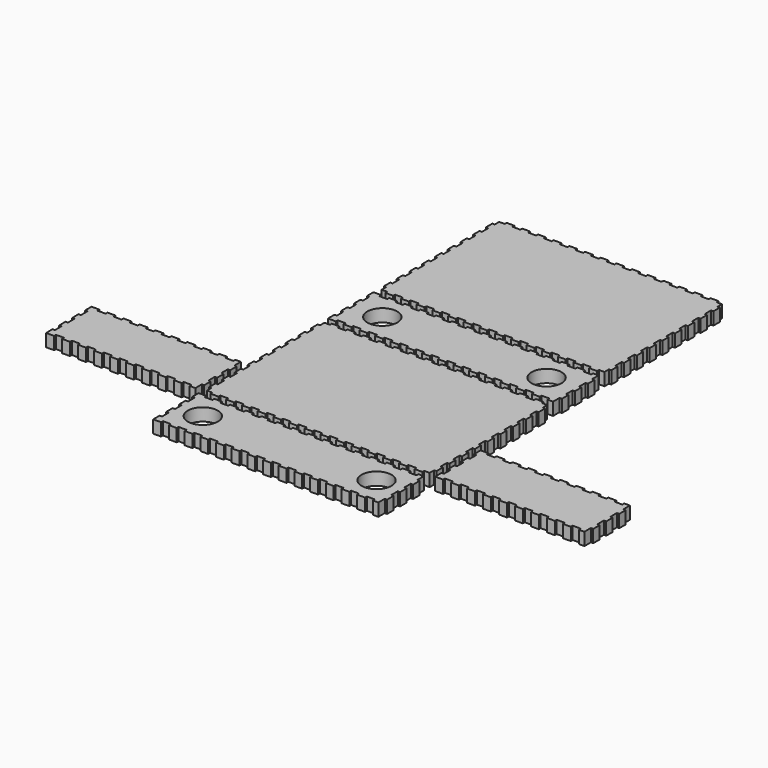
from build123d import *

# Parameters (mm, degrees)
F0_R     = 30.1625
F1_DEPTH = 25.4


with BuildPart() as f1:
    # F0 (on Top) → F1 (new body)
    with BuildSketch(Plane.XY):
        Polygon((-223.837729, 145.341111), (-223.837729, 134.063511), (-212.834449, 134.063511), (-212.834449, 129.301011), (-197.068669, 129.301011), (-197.068669, 134.063511), (-181.305429, 134.063511), (-181.305429, 129.301011), (-165.539649, 129.301011), (-165.539649, 134.063511), (-149.773869, 134.063511), (-149.773869, 129.301011), (-134.008089, 129.301011), (-134.008089, 134.063511), (-118.242309, 134.063511), (-118.242309, 129.301011), (-102.476529, 129.301011), (-102.476529, 134.063511), (-86.710749, 134.063511), (-86.710749, 129.301011), (-70.944969, 129.301011), (-70.944969, 134.063511), (-55.179189, 134.063511), (-55.179189, 129.301011), (-39.413409, 129.301011), (-39.413409, 134.063511), (-23.647629, 134.063511), (-23.647629, 129.301011), (-7.881849, 129.301011), (-7.881849, 134.063511), (7.883931, 134.063511), (7.883931, 129.301011), (23.649711, 129.301011), (23.649711, 134.063511), (39.415491, 134.063511), (39.415491, 129.301011), (55.181271, 129.301011), (55.181271, 134.063511), (70.947051, 134.063511), (70.947051, 129.301011), (86.707751, 129.301011), (86.707751, 134.063511), (102.476071, 134.063511), (102.476071, 129.301011), (118.239311, 129.301011), (118.239311, 134.063511), (134.005091, 134.063511), (134.005091, 129.301011), (149.773411, 129.301011), (149.773411, 134.063511), (165.536651, 134.063511), (165.536651, 129.301011), (181.304971, 129.301011), (181.304971, 134.063511), (197.068211, 134.063511), (197.068211, 129.301011), (212.833991, 129.301011), (212.833991, 134.063511), (223.837271, 134.063511), (223.837271, 145.341111), (228.599771, 145.341111), (228.599771, 161.381211), (223.837271, 161.381211), (223.837271, 177.426391), (228.599771, 177.426391), (228.599771, 193.466491), (223.837271, 193.466491), (223.837271, 209.506591), (228.599771, 209.506591), (228.599771, 225.551771), (223.837271, 225.551771), (223.837271, 241.591871), (228.599771, 241.591871), (228.599771, 257.637051), (223.837271, 257.637051), (223.837271, 273.677151), (228.599771, 273.677151), (228.599771, 289.719791), (223.837271, 289.719791), (223.837271, 305.762431), (228.599771, 305.762431), (228.599771, 321.805071), (223.837271, 321.805071), (223.837271, 337.845171), (228.599771, 337.845171), (228.599771, 353.887811), (223.837271, 353.887811), (223.837271, 369.930451), (228.599771, 369.930451), (228.599771, 385.970551), (223.837271, 385.970551), (223.837271, 402.015731), (228.599771, 402.015731), (228.599771, 418.055831), (223.837271, 418.055831), (223.837271, 429.338511), (212.833991, 429.338511), (212.833991, 434.101011), (197.068211, 434.101011), (197.068211, 429.338511), (181.304971, 429.338511), (181.304971, 434.101011), (165.536651, 434.101011), (165.536651, 429.338511), (149.773411, 429.338511), (149.773411, 434.101011), (134.005091, 434.101011), (134.005091, 429.338511), (118.239311, 429.338511), (118.239311, 434.101011), (102.476071, 434.101011), (102.476071, 429.338511), (86.707751, 429.338511), (86.707751, 434.101011), (70.947051, 434.101011), (70.947051, 429.338511), (55.181271, 429.338511), (55.181271, 434.101011), (39.415491, 434.101011), (39.415491, 429.338511), (23.649711, 429.338511), (23.649711, 434.101011), (7.883931, 434.101011), (7.883931, 429.338511), (-7.881849, 429.338511), (-7.881849, 434.101011), (-23.647629, 434.101011), (-23.647629, 429.338511), (-39.413409, 429.338511), (-39.413409, 434.101011), (-55.179189, 434.101011), (-55.179189, 429.338511), (-70.944969, 429.338511), (-70.944969, 434.101011), (-86.710749, 434.101011), (-86.710749, 429.338511), (-102.476529, 429.338511), (-102.476529, 434.101011), (-118.242309, 434.101011), (-118.242309, 429.338511), (-134.008089, 429.338511), (-134.008089, 434.101011), (-149.773869, 434.101011), (-149.773869, 429.338511), (-165.539649, 429.338511), (-165.539649, 434.101011), (-181.305429, 434.101011), (-181.305429, 429.338511), (-197.068669, 429.338511), (-197.068669, 434.101011), (-212.834449, 434.101011), (-212.834449, 429.338511), (-223.837729, 429.338511), (-223.837729, 418.055831), (-228.600229, 418.055831), (-228.600229, 402.015731), (-223.837729, 402.015731), (-223.837729, 385.970551), (-228.600229, 385.970551), (-228.600229, 369.930451), (-223.837729, 369.930451), (-223.837729, 353.887811), (-228.600229, 353.887811), (-228.600229, 337.845171), (-223.837729, 337.845171), (-223.837729, 321.805071), (-228.600229, 321.805071), (-228.600229, 305.762431), (-223.837729, 305.762431), (-223.837729, 289.719791), (-228.600229, 289.719791), (-228.600229, 273.677151), (-223.837729, 273.677151), (-223.837729, 257.637051), (-228.600229, 257.637051), (-228.600229, 241.591871), (-223.837729, 241.591871), (-223.837729, 225.551771), (-228.600229, 225.551771), (-228.600229, 209.506591), (-223.837729, 209.506591), (-223.837729, 193.466491), (-228.600229, 193.466491), (-228.600229, 177.426391), (-223.837729, 177.426391), (-223.837729, 161.381211), (-228.600229, 161.381211), (-228.600229, 145.341111), align=None)
        Polygon((-228.600229, 21.325611), (-228.600229, 4.998491), (-212.834449, 4.998491), (-212.834449, 9.760991), (-197.068669, 9.760991), (-197.068669, 4.998491), (-181.305429, 4.998491), (-181.305429, 9.760991), (-165.539649, 9.760991), (-165.539649, 4.998491), (-149.773869, 4.998491), (-149.773869, 9.760991), (-134.008089, 9.760991), (-134.008089, 4.998491), (-118.242309, 4.998491), (-118.242309, 9.760991), (-102.476529, 9.760991), (-102.476529, 4.998491), (-86.710749, 4.998491), (-86.710749, 9.760991), (-70.944969, 9.760991), (-70.944969, 4.998491), (-55.179189, 4.998491), (-55.179189, 9.760991), (-39.413409, 9.760991), (-39.413409, 4.998491), (-23.647629, 4.998491), (-23.647629, 9.760991), (-7.881849, 9.760991), (-7.881849, 4.998491), (7.883931, 4.998491), (7.883931, 9.760991), (23.649711, 9.760991), (23.649711, 4.998491), (39.415491, 4.998491), (39.415491, 9.760991), (55.181271, 9.760991), (55.181271, 4.998491), (70.947051, 4.998491), (70.947051, 9.760991), (86.707751, 9.760991), (86.707751, 4.998491), (102.476071, 4.998491), (102.476071, 9.760991), (118.239311, 9.760991), (118.239311, 4.998491), (134.005091, 4.998491), (134.005091, 9.760991), (149.773411, 9.760991), (149.773411, 4.998491), (165.536651, 4.998491), (165.536651, 9.760991), (181.304971, 9.760991), (181.304971, 4.998491), (197.068211, 4.998491), (197.068211, 9.760991), (212.833991, 9.760991), (212.833991, 4.998491), (223.837271, 4.998491), (223.837271, 21.325611), (228.599771, 21.325611), (228.599771, 37.655271), (223.837271, 37.655271), (223.837271, 53.984931), (228.599771, 53.984931), (228.599771, 70.312051), (223.837271, 70.312051), (223.837271, 86.641711), (228.599771, 86.641711), (228.599771, 102.968831), (223.837271, 102.968831), (223.837271, 119.298491), (212.833991, 119.298491), (212.833991, 114.535991), (197.068211, 114.535991), (197.068211, 119.298491), (181.304971, 119.298491), (181.304971, 114.535991), (165.536651, 114.535991), (165.536651, 119.298491), (149.773411, 119.298491), (149.773411, 114.535991), (134.005091, 114.535991), (134.005091, 119.298491), (118.239311, 119.298491), (118.239311, 114.535991), (102.476071, 114.535991), (102.476071, 119.298491), (86.707751, 119.298491), (86.707751, 114.535991), (70.947051, 114.535991), (70.947051, 119.298491), (55.181271, 119.298491), (55.181271, 114.535991), (39.415491, 114.535991), (39.415491, 119.298491), (23.649711, 119.298491), (23.649711, 114.535991), (7.883931, 114.535991), (7.883931, 119.298491), (-7.881849, 119.298491), (-7.881849, 114.535991), (-23.647629, 114.535991), (-23.647629, 119.298491), (-39.413409, 119.298491), (-39.413409, 114.535991), (-55.179189, 114.535991), (-55.179189, 119.298491), (-70.944969, 119.298491), (-70.944969, 114.535991), (-86.710749, 114.535991), (-86.710749, 119.298491), (-102.476529, 119.298491), (-102.476529, 114.535991), (-118.242309, 114.535991), (-118.242309, 119.298491), (-134.008089, 119.298491), (-134.008089, 114.535991), (-149.773869, 114.535991), (-149.773869, 119.298491), (-165.539649, 119.298491), (-165.539649, 114.535991), (-181.305429, 114.535991), (-181.305429, 119.298491), (-197.068669, 119.298491), (-197.068669, 114.535991), (-212.834449, 114.535991), (-212.834449, 119.298491), (-228.600229, 119.298491), (-228.600229, 102.968831), (-223.837729, 102.968831), (-223.837729, 86.641711), (-228.600229, 86.641711), (-228.600229, 70.312051), (-223.837729, 70.312051), (-223.837729, 53.984931), (-228.600229, 53.984931), (-228.600229, 37.655271), (-223.837729, 37.655271), (-223.837729, 21.325611), align=None)
        with Locations((-165.099479, 62.148491)):
            Circle(F0_R, mode=Mode.SUBTRACT)
        with Locations((165.113221, 62.148491)):
            Circle(F0_R, mode=Mode.SUBTRACT)
        Polygon((-223.837729, -293.758849), (-223.837729, -305.039497), (-212.834449, -305.039497), (-212.834449, -309.801997), (-197.068669, -309.801997), (-197.068669, -305.039497), (-181.305429, -305.039497), (-181.305429, -309.801997), (-165.539649, -309.801997), (-165.539649, -305.039497), (-149.773869, -305.039497), (-149.773869, -309.801997), (-134.008089, -309.801997), (-134.008089, -305.039497), (-118.242309, -305.039497), (-118.242309, -309.801997), (-102.476529, -309.801997), (-102.476529, -305.039497), (-86.710749, -305.039497), (-86.710749, -309.801997), (-70.944969, -309.801997), (-70.944969, -305.039497), (-55.179189, -305.039497), (-55.179189, -309.801997), (-39.413409, -309.801997), (-39.413409, -305.039497), (-23.647629, -305.039497), (-23.647629, -309.801997), (-7.881849, -309.801997), (-7.881849, -305.039497), (7.883931, -305.039497), (7.883931, -309.801997), (23.649711, -309.801997), (23.649711, -305.039497), (39.415491, -305.039497), (39.415491, -309.801997), (55.181271, -309.801997), (55.181271, -305.039497), (70.947051, -305.039497), (70.947051, -309.801997), (86.707751, -309.801997), (86.707751, -305.039497), (102.476071, -305.039497), (102.476071, -309.801997), (118.239311, -309.801997), (118.239311, -305.039497), (134.005091, -305.039497), (134.005091, -309.801997), (149.773411, -309.801997), (149.773411, -305.039497), (165.536651, -305.039497), (165.536651, -309.801997), (181.304971, -309.801997), (181.304971, -305.039497), (197.068211, -305.039497), (197.068211, -309.801997), (212.833991, -309.801997), (212.833991, -305.039497), (223.837271, -305.039497), (223.837271, -293.758849), (228.599771, -293.758849), (228.599771, -277.716971), (223.837271, -277.716971), (223.837271, -261.675601), (228.599771, -261.675601), (228.599771, -245.633723), (223.837271, -245.633723), (223.837271, -229.590321), (228.599771, -229.590321), (228.599771, -213.548951), (223.837271, -213.548951), (223.837271, -197.507073), (228.599771, -197.507073), (228.599771, -181.465449), (223.837271, -181.465449), (223.837271, -165.422809), (228.599771, -165.422809), (228.599771, -149.380169), (223.837271, -149.380169), (223.837271, -133.340069), (228.599771, -133.340069), (228.599771, -117.294889), (223.837271, -117.294889), (223.837271, -101.254789), (228.599771, -101.254789), (228.599771, -85.214689), (223.837271, -85.214689), (223.837271, -69.169509), (228.599771, -69.169509), (228.599771, -53.129409), (223.837271, -53.129409), (223.837271, -37.084229), (228.599771, -37.084229), (228.599771, -21.044129), (223.837271, -21.044129), (223.837271, -9.763989), (212.833991, -9.763989), (212.833991, -5.001489), (197.068211, -5.001489), (197.068211, -9.763989), (181.304971, -9.763989), (181.304971, -5.001489), (165.536651, -5.001489), (165.536651, -9.763989), (149.773411, -9.763989), (149.773411, -5.001489), (134.005091, -5.001489), (134.005091, -9.763989), (118.239311, -9.763989), (118.239311, -5.001489), (102.476071, -5.001489), (102.476071, -9.763989), (86.707751, -9.763989), (86.707751, -5.001489), (70.947051, -5.001489), (70.947051, -9.763989), (55.181271, -9.763989), (55.181271, -5.001489), (39.415491, -5.001489), (39.415491, -9.763989), (23.649711, -9.763989), (23.649711, -5.001489), (7.883931, -5.001489), (7.883931, -9.763989), (-7.881849, -9.763989), (-7.881849, -5.001489), (-23.647629, -5.001489), (-23.647629, -9.763989), (-39.413409, -9.763989), (-39.413409, -5.001489), (-55.179189, -5.001489), (-55.179189, -9.763989), (-70.944969, -9.763989), (-70.944969, -5.001489), (-86.710749, -5.001489), (-86.710749, -9.763989), (-102.476529, -9.763989), (-102.476529, -5.001489), (-118.242309, -5.001489), (-118.242309, -9.763989), (-134.008089, -9.763989), (-134.008089, -5.001489), (-149.773869, -5.001489), (-149.773869, -9.763989), (-165.539649, -9.763989), (-165.539649, -5.001489), (-181.305429, -5.001489), (-181.305429, -9.763989), (-197.068669, -9.763989), (-197.068669, -5.001489), (-212.834449, -5.001489), (-212.834449, -9.763989), (-223.837729, -9.763989), (-223.837729, -21.044129), (-228.600229, -21.044129), (-228.600229, -37.084229), (-223.837729, -37.084229), (-223.837729, -53.129409), (-228.600229, -53.129409), (-228.600229, -69.169509), (-223.837729, -69.169509), (-223.837729, -85.214689), (-228.600229, -85.214689), (-228.600229, -101.254789), (-223.837729, -101.254789), (-223.837729, -117.294889), (-228.600229, -117.294889), (-228.600229, -133.340069), (-223.837729, -133.340069), (-223.837729, -149.380169), (-228.600229, -149.380169), (-228.600229, -165.422809), (-223.837729, -165.422809), (-223.837729, -181.465449), (-228.600229, -181.465449), (-228.600229, -197.507073), (-223.837729, -197.507073), (-223.837729, -213.548951), (-228.600229, -213.548951), (-228.600229, -229.590321), (-223.837729, -229.590321), (-223.837729, -245.633723), (-228.600229, -245.633723), (-228.600229, -261.675601), (-223.837729, -261.675601), (-223.837729, -277.716971), (-228.600229, -277.716971), (-228.600229, -293.758849), align=None)
        Polygon((-543.399751, -293.473353), (-543.399751, -309.801997), (-527.358077, -309.801997), (-527.358077, -305.039497), (-511.316199, -305.039497), (-511.316199, -309.801997), (-495.274321, -309.801997), (-495.274321, -305.039497), (-479.231427, -305.039497), (-479.231427, -309.801997), (-463.189549, -309.801997), (-463.189549, -305.039497), (-447.147671, -305.039497), (-447.147671, -309.801997), (-431.104777, -309.801997), (-431.104777, -305.039497), (-415.062899, -305.039497), (-415.062899, -309.801997), (-399.021529, -309.801997), (-399.021529, -305.039497), (-382.979651, -305.039497), (-382.979651, -309.801997), (-366.936249, -309.801997), (-366.936249, -305.039497), (-350.894879, -305.039497), (-350.894879, -309.801997), (-334.853001, -309.801997), (-334.853001, -305.039497), (-318.811123, -305.039497), (-318.811123, -309.801997), (-302.768229, -309.801997), (-302.768229, -305.039497), (-286.725589, -305.039497), (-286.725589, -309.801997), (-270.685489, -309.801997), (-270.685489, -305.039497), (-254.642849, -305.039497), (-254.642849, -309.801997), (-243.362709, -309.801997), (-243.362709, -293.473353), (-238.600209, -293.473353), (-238.600209, -277.143693), (-243.362709, -277.143693), (-243.362709, -260.815303), (-238.600209, -260.815303), (-238.600209, -244.487167), (-243.362709, -244.487167), (-243.362709, -228.158777), (-238.600209, -228.158777), (-238.600209, -211.830387), (-243.362709, -211.830387), (-243.362709, -195.502251), (-254.642849, -195.502251), (-254.642849, -200.264751), (-270.685489, -200.264751), (-270.685489, -195.502251), (-286.725589, -195.502251), (-286.725589, -200.264751), (-302.768229, -200.264751), (-302.768229, -195.502251), (-318.811123, -195.502251), (-318.811123, -200.264751), (-334.853001, -200.264751), (-334.853001, -195.502251), (-350.894879, -195.502251), (-350.894879, -200.264751), (-366.936249, -200.264751), (-366.936249, -195.502251), (-382.979651, -195.502251), (-382.979651, -200.264751), (-399.021529, -200.264751), (-399.021529, -195.502251), (-415.062899, -195.502251), (-415.062899, -200.264751), (-431.104777, -200.264751), (-431.104777, -195.502251), (-447.147671, -195.502251), (-447.147671, -200.264751), (-463.189549, -200.264751), (-463.189549, -195.502251), (-479.231427, -195.502251), (-479.231427, -200.264751), (-495.274321, -200.264751), (-495.274321, -195.502251), (-511.316199, -195.502251), (-511.316199, -200.264751), (-527.358077, -200.264751), (-527.358077, -195.502251), (-543.399751, -195.502251), (-543.399751, -211.830387), (-538.637251, -211.830387), (-538.637251, -228.158777), (-543.399751, -228.158777), (-543.399751, -244.487167), (-538.637251, -244.487167), (-538.637251, -260.815303), (-543.399751, -260.815303), (-543.399751, -277.143693), (-538.637251, -277.143693), (-538.637251, -293.473353), align=None)
        Polygon((-228.600229, -417.772571), (-228.600229, -434.101011), (-212.834449, -434.101011), (-212.834449, -429.338511), (-197.068669, -429.338511), (-197.068669, -434.101011), (-181.305429, -434.101011), (-181.305429, -429.338511), (-165.539649, -429.338511), (-165.539649, -434.101011), (-149.773869, -434.101011), (-149.773869, -429.338511), (-134.008089, -429.338511), (-134.008089, -434.101011), (-118.242309, -434.101011), (-118.242309, -429.338511), (-102.476529, -429.338511), (-102.476529, -434.101011), (-86.710749, -434.101011), (-86.710749, -429.338511), (-70.944969, -429.338511), (-70.944969, -434.101011), (-55.179189, -434.101011), (-55.179189, -429.338511), (-39.413409, -429.338511), (-39.413409, -434.101011), (-23.647629, -434.101011), (-23.647629, -429.338511), (-7.881849, -429.338511), (-7.881849, -434.101011), (7.883931, -434.101011), (7.883931, -429.338511), (23.649711, -429.338511), (23.649711, -434.101011), (39.415491, -434.101011), (39.415491, -429.338511), (55.181271, -429.338511), (55.181271, -434.101011), (70.947051, -434.101011), (70.947051, -429.338511), (86.707751, -429.338511), (86.707751, -434.101011), (102.476071, -434.101011), (102.476071, -429.338511), (118.239311, -429.338511), (118.239311, -434.101011), (134.005091, -434.101011), (134.005091, -429.338511), (149.773411, -429.338511), (149.773411, -434.101011), (165.536651, -434.101011), (165.536651, -429.338511), (181.304971, -429.338511), (181.304971, -434.101011), (197.068211, -434.101011), (197.068211, -429.338511), (212.833991, -429.338511), (212.833991, -434.101011), (223.837271, -434.101011), (223.837271, -417.772571), (228.599771, -417.772571), (228.599771, -401.444181), (223.837271, -401.444181), (223.837271, -385.116045), (228.599771, -385.116045), (228.599771, -368.787655), (223.837271, -368.787655), (223.837271, -352.459265), (228.599771, -352.459265), (228.599771, -336.129351), (223.837271, -336.129351), (223.837271, -319.800961), (212.833991, -319.800961), (212.833991, -324.563461), (197.068211, -324.563461), (197.068211, -319.800961), (181.304971, -319.800961), (181.304971, -324.563461), (165.536651, -324.563461), (165.536651, -319.800961), (149.773411, -319.800961), (149.773411, -324.563461), (134.005091, -324.563461), (134.005091, -319.800961), (118.239311, -319.800961), (118.239311, -324.563461), (102.476071, -324.563461), (102.476071, -319.800961), (86.707751, -319.800961), (86.707751, -324.563461), (70.947051, -324.563461), (70.947051, -319.800961), (55.181271, -319.800961), (55.181271, -324.563461), (39.415491, -324.563461), (39.415491, -319.800961), (23.649711, -319.800961), (23.649711, -324.563461), (7.883931, -324.563461), (7.883931, -319.800961), (-7.881849, -319.800961), (-7.881849, -324.563461), (-23.647629, -324.563461), (-23.647629, -319.800961), (-39.413409, -319.800961), (-39.413409, -324.563461), (-55.179189, -324.563461), (-55.179189, -319.800961), (-70.944969, -319.800961), (-70.944969, -324.563461), (-86.710749, -324.563461), (-86.710749, -319.800961), (-102.476529, -319.800961), (-102.476529, -324.563461), (-118.242309, -324.563461), (-118.242309, -319.800961), (-134.008089, -319.800961), (-134.008089, -324.563461), (-149.773869, -324.563461), (-149.773869, -319.800961), (-165.539649, -319.800961), (-165.539649, -324.563461), (-181.305429, -324.563461), (-181.305429, -319.800961), (-197.068669, -319.800961), (-197.068669, -324.563461), (-212.834449, -324.563461), (-212.834449, -319.800961), (-228.600229, -319.800961), (-228.600229, -336.129351), (-223.837729, -336.129351), (-223.837729, -352.459265), (-228.600229, -352.459265), (-228.600229, -368.787655), (-223.837729, -368.787655), (-223.837729, -385.116045), (-228.600229, -385.116045), (-228.600229, -401.444181), (-223.837729, -401.444181), (-223.837729, -417.772571), align=None)
        with Locations((-174.623959, -376.95185)):
            Circle(F0_R, mode=Mode.SUBTRACT)
        with Locations((174.626041, -376.95185)):
            Circle(F0_R, mode=Mode.SUBTRACT)
        Polygon((238.599751, -293.473353), (238.599751, -309.801997), (254.639851, -309.801997), (254.639851, -305.039497), (270.685031, -305.039497), (270.685031, -309.801997), (286.725131, -309.801997), (286.725131, -305.039497), (302.767771, -305.039497), (302.767771, -309.801997), (318.810411, -309.801997), (318.810411, -305.039497), (334.853051, -305.039497), (334.853051, -309.801997), (350.895691, -309.801997), (350.895691, -305.039497), (366.938331, -305.039497), (366.938331, -309.801997), (382.978431, -309.801997), (382.978431, -305.039497), (399.021071, -305.039497), (399.021071, -309.801997), (415.063711, -309.801997), (415.063711, -305.039497), (431.103811, -305.039497), (431.103811, -309.801997), (447.148991, -309.801997), (447.148991, -305.039497), (463.189091, -305.039497), (463.189091, -309.801997), (479.229191, -309.801997), (479.229191, -305.039497), (495.274371, -305.039497), (495.274371, -309.801997), (511.314471, -309.801997), (511.314471, -305.039497), (527.359651, -305.039497), (527.359651, -309.801997), (538.637251, -309.801997), (538.637251, -293.473353), (543.399751, -293.473353), (543.399751, -277.143693), (538.637251, -277.143693), (538.637251, -260.815303), (543.399751, -260.815303), (543.399751, -244.487167), (538.637251, -244.487167), (538.637251, -228.158777), (543.399751, -228.158777), (543.399751, -211.830387), (538.637251, -211.830387), (538.637251, -195.502251), (527.359651, -195.502251), (527.359651, -200.264751), (511.314471, -200.264751), (511.314471, -195.502251), (495.274371, -195.502251), (495.274371, -200.264751), (479.229191, -200.264751), (479.229191, -195.502251), (463.189091, -195.502251), (463.189091, -200.264751), (447.148991, -200.264751), (447.148991, -195.502251), (431.103811, -195.502251), (431.103811, -200.264751), (415.063711, -200.264751), (415.063711, -195.502251), (399.021071, -195.502251), (399.021071, -200.264751), (382.978431, -200.264751), (382.978431, -195.502251), (366.938331, -195.502251), (366.938331, -200.264751), (350.895691, -200.264751), (350.895691, -195.502251), (334.853051, -195.502251), (334.853051, -200.264751), (318.810411, -200.264751), (318.810411, -195.502251), (302.767771, -195.502251), (302.767771, -200.264751), (286.725131, -200.264751), (286.725131, -195.502251), (270.685031, -195.502251), (270.685031, -200.264751), (254.639851, -200.264751), (254.639851, -195.502251), (238.599751, -195.502251), (238.599751, -211.830387), (243.362251, -211.830387), (243.362251, -228.158777), (238.599751, -228.158777), (238.599751, -244.487167), (243.362251, -244.487167), (243.362251, -260.815303), (238.599751, -260.815303), (238.599751, -277.143693), (243.362251, -277.143693), (243.362251, -293.473353), align=None)
    extrude(amount=F1_DEPTH)


solid = f1.part
